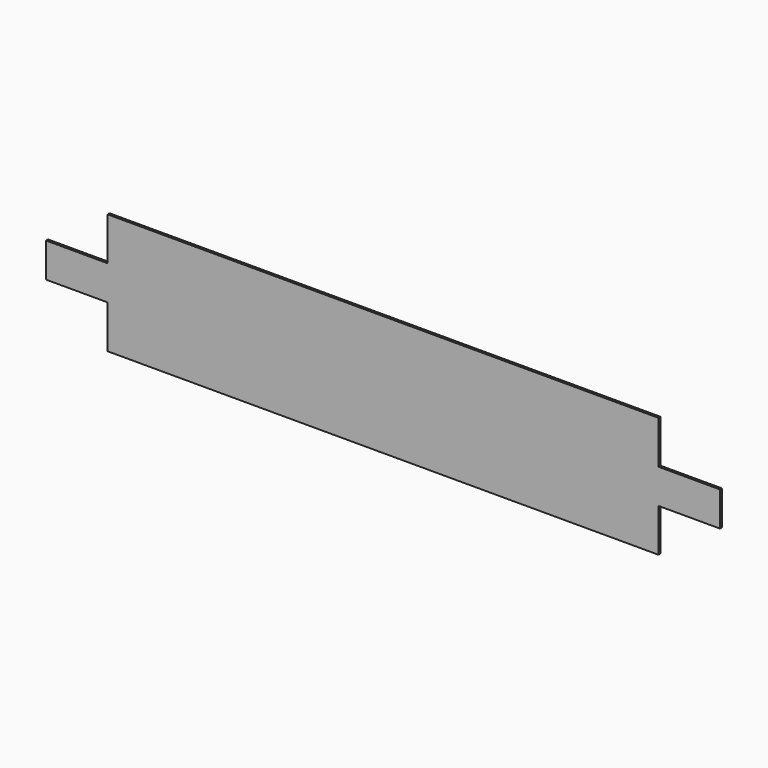
from build123d import *

# Parameters (mm, degrees)
F0_W     = 448
F0_H     = 14
F0_H_2   = 21
F0_H_3   = 28
F0_W_2   = 50
F1_DEPTH = 2


with BuildPart() as f1:
    # F0 (on Front) → F1 (new body)
    with BuildSketch(Plane.XZ):
        with Locations((0, 42)):
            Rectangle(F0_W, F0_H)
        with Locations((0, 24.5)):
            Rectangle(F0_W, F0_H_2)
        Rectangle(F0_W, F0_H_3)
        with Locations((-249, 0)):
            Rectangle(F0_W_2, F0_H_3)
        with Locations((0, -21)):
            Rectangle(F0_W, F0_H)
        with Locations((0, -38.5)):
            Rectangle(F0_W, F0_H_2)
        with Locations((249, 0)):
            Rectangle(F0_W_2, F0_H_3)
    extrude(amount=F1_DEPTH)


solid = f1.part
